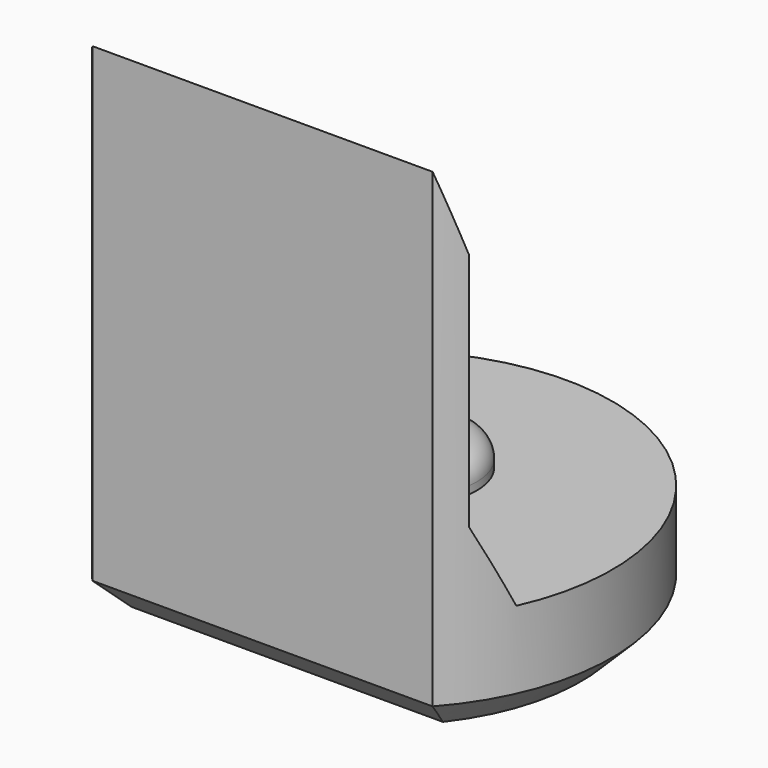
from build123d import *

# Parameters (mm, degrees)
PAD008_DEPTH         = 6.5
POCKET007_DEPTH      = 2.951
POCKET007_DEPTH_BACK = 2.951
SKETCH023_R          = 0.8
PAD009_DEPTH         = 0.4
FILLET001_R          = 0.3
CHAMFER007_SIZE      = 0.4


with BuildPart() as part:
    # Sketch022 → Pad008 (new body)
    with BuildSketch(Plane.XY):
        with BuildLine():
            ThreePointArc((2.2, -1.9653244007), (0, 2.95), (-2.2, -1.9653244007))
            Line((-2.2, -1.9653244007), (2.2, -1.9653244007))
        make_face()
    extrude(amount=PAD008_DEPTH)

    # Sketch024 → Pocket007 (cut, two sides)
    with BuildSketch(Plane.YZ) as pocket007_sk:
        Polygon((-1.97, 6.5), (-1.67, 5.5), (-1.67, 2.4), (-1.22, 1.4), (4, 1.4), (4, 6.5), align=None)
    extrude(amount=-POCKET007_DEPTH, mode=Mode.SUBTRACT)
    extrude(pocket007_sk.sketch, amount=POCKET007_DEPTH_BACK, mode=Mode.SUBTRACT)

    # Sketch023 (on Face7 of Pocket007) → Pad009 (join)
    with BuildSketch(Plane.XY.offset(1.4)):
        with Locations((0, 0.5)):
            Circle(SKETCH023_R)
    extrude(amount=PAD009_DEPTH)

    # Fillet001
    fillet001_edges = [part.edges().sort_by_distance(p)[0] for p in [
        (-0.8, 0.5, 1.8),
    ]]
    fillet(fillet001_edges, radius=FILLET001_R)

    # Chamfer007
    chamfer007_edges = [part.edges().sort_by_distance(p)[0] for p in [
        (0, 2.95, 0),
        (0, -1.965324, 0),
    ]]
    chamfer(chamfer007_edges, length=CHAMFER007_SIZE)


with BuildPart() as part_1:
    # Body091 placement: moved
    add(part.part.moved(Location((0, 66, 0))))


solid = part_1.part
